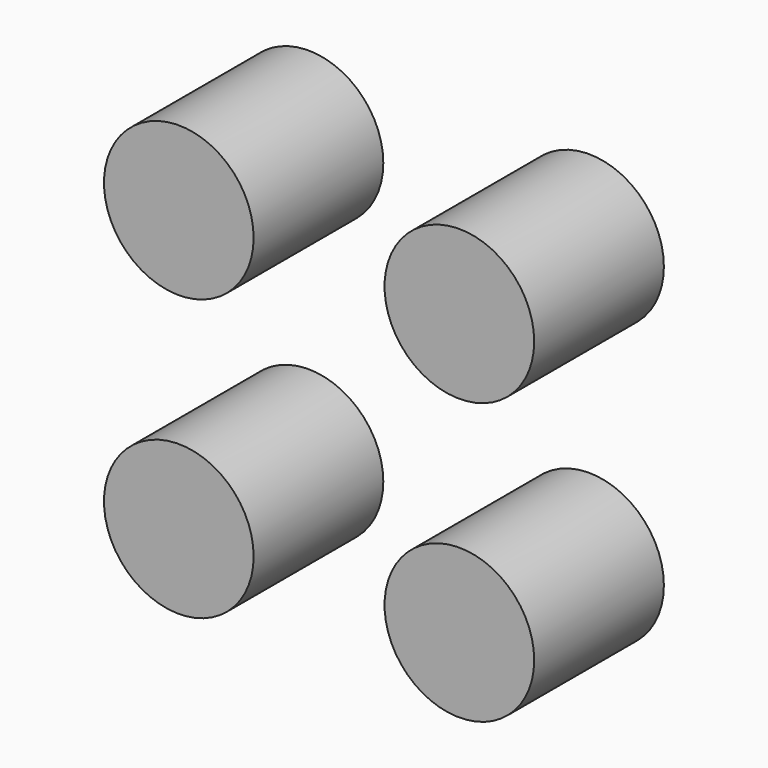
from build123d import *

# Parameters (mm, degrees)
CYLINDER094_R           = 6
CYLINDER094_DEPTH       = 13
CYLINDER095_R           = 6
CYLINDER095_DEPTH       = 13
CYLINDER093_R           = 6
CYLINDER093_DEPTH       = 13
CYLINDER092_R           = 6
CYLINDER092_DEPTH       = 13
FUSION026031_ROLL_ANGLE = 90


with BuildPart() as zylinder085:
    # Cylinder094 → Cylinder094 (new body)
    with BuildSketch(Plane(origin=(19, 14, 0), x_dir=(1, 0, 0), z_dir=(0, 0, 1))):
        Circle(CYLINDER094_R)
    extrude(amount=CYLINDER094_DEPTH)


with BuildPart() as zylinder086:
    # Cylinder095 → Cylinder095 (new body)
    with BuildSketch(Plane(origin=(19, 36.5, 0), x_dir=(1, 0, 0), z_dir=(0, 0, 1))):
        Circle(CYLINDER095_R)
    extrude(amount=CYLINDER095_DEPTH)


with BuildPart() as zylinder084:
    # Cylinder093 → Cylinder093 (new body)
    with BuildSketch(Plane(origin=(-3.5, 36.5, 0), x_dir=(1, 0, 0), z_dir=(0, 0, 1))):
        Circle(CYLINDER093_R)
    extrude(amount=CYLINDER093_DEPTH)


with BuildPart() as obj1:
    # Cylinder092 → Cylinder092 (new body)
    with BuildSketch(Plane(origin=(-3.5, 14, 0), x_dir=(1, 0, 0), z_dir=(0, 0, 1))):
        Circle(CYLINDER092_R)
    extrude(amount=CYLINDER092_DEPTH)

    # Fusion026031: union Zylinder085, Zylinder086, Zylinder084
    add(zylinder085.part)
    add(zylinder086.part)
    add(zylinder084.part)


with BuildPart() as obj1_1:
    # Fusion026031 roll: moved
    add(obj1.part.rotate(Axis((0, 0, 0), (1, 0, 0)), FUSION026031_ROLL_ANGLE))


with BuildPart() as obj1_2:
    # Fusion026031 placement: moved
    add(obj1_1.part.moved(Location((26, 27, -10.5))))


solid = obj1_2.part
